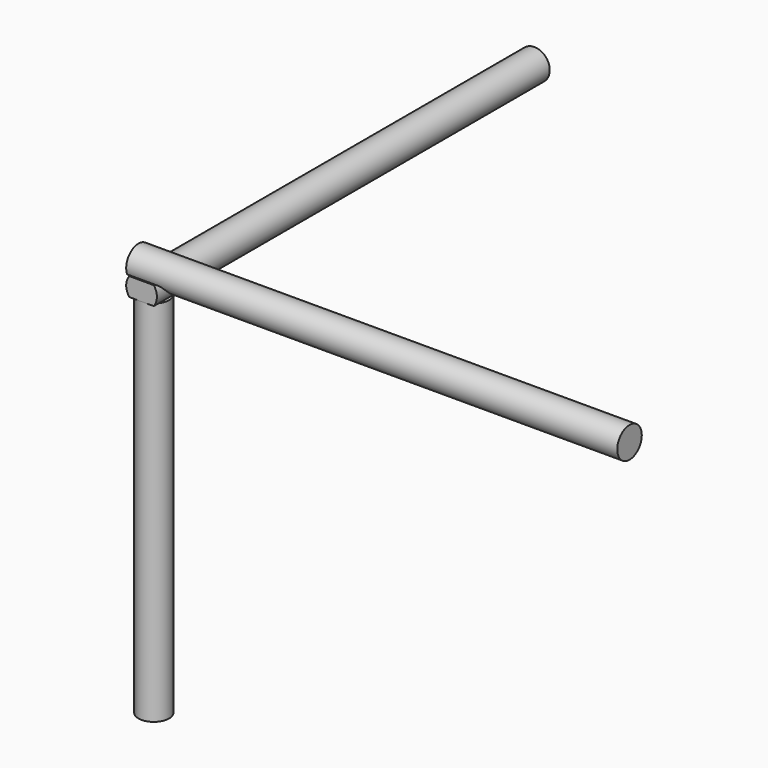
from build123d import *

# Parameters (mm, degrees)
F0_R      = 125
F1_DEPTH  = 3000
F3_R      = 125
F4_DEPTH  = 4000
F6_DEPTH  = 200
F8_R      = 125
F9_DEPTH  = 4000
F11_DEPTH = 200


with BuildPart() as f1:
    # F0 (on Top) → F1 (new body)
    with BuildSketch(Plane.XY):
        Circle(F0_R)
    extrude(amount=-F1_DEPTH)


with BuildPart() as f4:
    # F3 (on offset) → F4 (new body)
    with BuildSketch(Plane.XZ.offset(125)):
        with Locations((0, 75)):
            Circle(F3_R)
    extrude(amount=-F4_DEPTH)

    # F5 (on Right) → F6 (cut, symmetric)
    with BuildSketch(Plane.YZ):
        with BuildLine():
            ThreePointArc((175, -50), (160.3553390593, -14.6446609407), (125, 0))
            Line((125, 0), (-125, 0))
            Line((-125, 0), (-125, 150))
            Line((-125, 150), (125, 150))
            Line((125, 150), (125, 250))
            Line((125, 250), (-212.5116288662, 250))
            Line((-212.5116288662, 250), (-212.5116288662, -100))
            Line((-212.5116288662, -100), (216.5246456861, -100))
            Line((216.5246456861, -100), (216.5246456861, -50))
            Line((216.5246456861, -50), (175, -50))
        make_face()
    extrude(amount=F6_DEPTH, both=True, mode=Mode.SUBTRACT)


with BuildPart() as f9:
    # F8 (on offset) → F9 (new body)
    with BuildSketch(Plane.YZ.offset(-125)):
        with Locations((0, 200)):
            Circle(F8_R)
    extrude(amount=F9_DEPTH)

    # F10 (on Front) → F11 (cut, symmetric)
    with BuildSketch(Plane.XZ):
        with BuildLine():
            Line((125, 150), (-125, 150))
            Line((-125, 150), (-125, 75))
            Line((-125, 75), (200, 75))
            ThreePointArc((200, 75), (178.033008589, 128.033008589), (125, 150))
        make_face()
    extrude(amount=F11_DEPTH, both=True, mode=Mode.SUBTRACT)


solid = Compound([f1.part, f4.part, f9.part])
